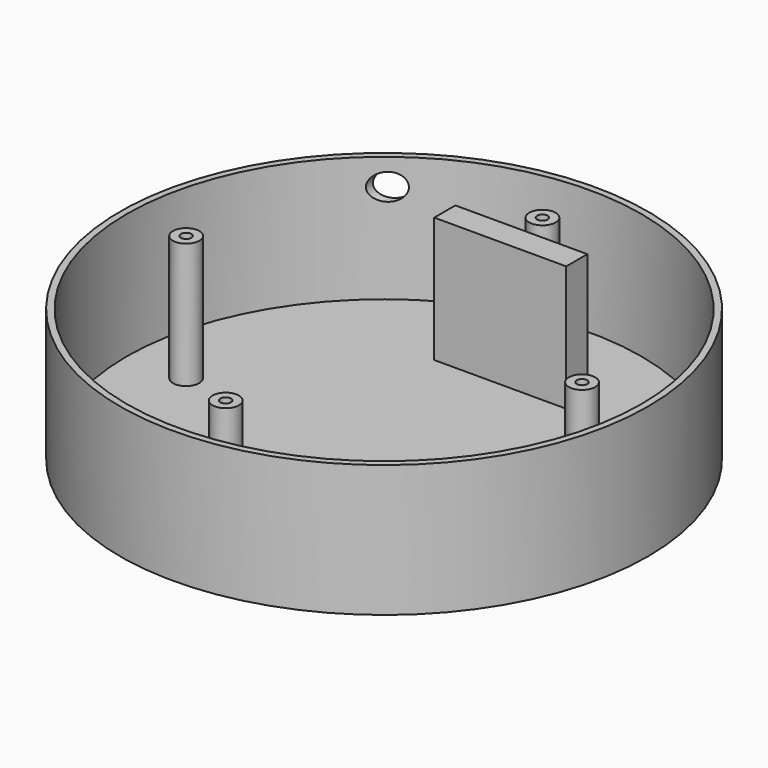
from build123d import *

# Parameters (mm, degrees)
F0_R     = 100
F1_DEPTH = 50
F2_T     = -2.5
F3_R     = 5
F3_R_2   = 2
F4_DEPTH = 47.5
F6_R     = 5
F7_DEPTH = 100.001
F5_W     = 50
F5_H     = 10
F8_DEPTH = 47.5


with BuildPart() as f1:
    # F0 (on Top) → F1 (new body)
    with BuildSketch(Plane.XY):
        Circle(F0_R)
    extrude(amount=F1_DEPTH)

    # F2
    f2_openings = [f1.faces().sort_by_distance(p)[0] for p in [
        (0, 0, 50),
    ]]
    offset(amount=F2_T, openings=f2_openings)

    # F3 (on face) → F4 (join, through all)
    with BuildSketch(Plane.XY.offset(50)):
        with Locations((-75, 0)):
            Circle(F3_R)
        with Locations((-75, 0)):
            Circle(F3_R_2, mode=Mode.SUBTRACT)
        with Locations((0, -75)):
            Circle(F3_R)
        with Locations((0, -75)):
            Circle(F3_R_2, mode=Mode.SUBTRACT)
        with Locations((75, 0)):
            Circle(F3_R)
        with Locations((75, 0)):
            Circle(F3_R_2, mode=Mode.SUBTRACT)
        with Locations((0, 75)):
            Circle(F3_R)
        with Locations((0, 75)):
            Circle(F3_R_2, mode=Mode.SUBTRACT)
    extrude(amount=-F4_DEPTH)

    # F6 (on Front) → F7 (cut, through all)
    with BuildSketch(Plane.XZ):
        with Locations((-60, 40)):
            Circle(F6_R)
    extrude(amount=-F7_DEPTH, mode=Mode.SUBTRACT)

    # F5 (on face) → F8 (join, through all)
    with BuildSketch(Plane.XY.offset(50)):
        with Locations((0, 60)):
            Rectangle(F5_W, F5_H)
    extrude(amount=-F8_DEPTH)


solid = f1.part
